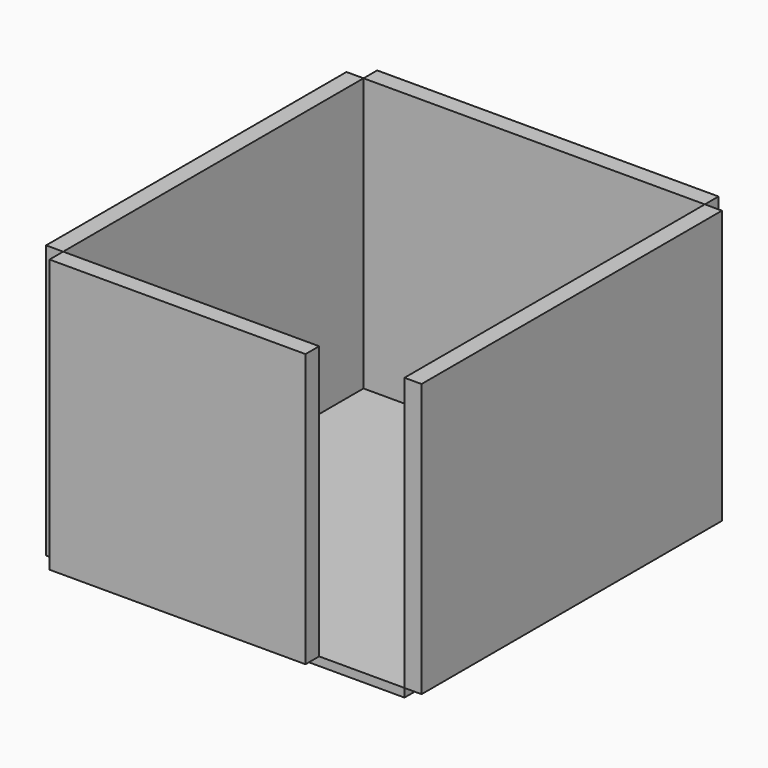
from build123d import *

# Parameters (mm, degrees)
F0_W     = 3048
F0_H     = 152.4
F0_W_2   = 2286
F0_W_3   = 152.4
F0_H_2   = 3352.8
F1_DEPTH = 2438.4
F2_W     = 3048
F2_H     = 3352.8
F3_DEPTH = 76.2


with BuildPart() as f1:
    # F0 (on Top) → F1 (new body)
    with BuildSketch(Plane.XY):
        with Locations((0, 1752.6)):
            Rectangle(F0_W, F0_H)
        with Locations((-381, -1752.6)):
            Rectangle(F0_W_2, F0_H)
        with Locations((1600.2, 0)):
            Rectangle(F0_W_3, F0_H_2)
        with Locations((-1600.2, 0)):
            Rectangle(F0_W_3, F0_H_2)
    extrude(amount=F1_DEPTH)


with BuildPart() as f3:
    # F2 (on face) → F3 (new body)
    with BuildSketch(Plane(origin=(0, 0, 0), x_dir=(1, 0, 0), z_dir=(0, 0, -1))):
        Rectangle(F2_W, F2_H)
    extrude(amount=F3_DEPTH)


solid = Compound([f1.part, f3.part])
